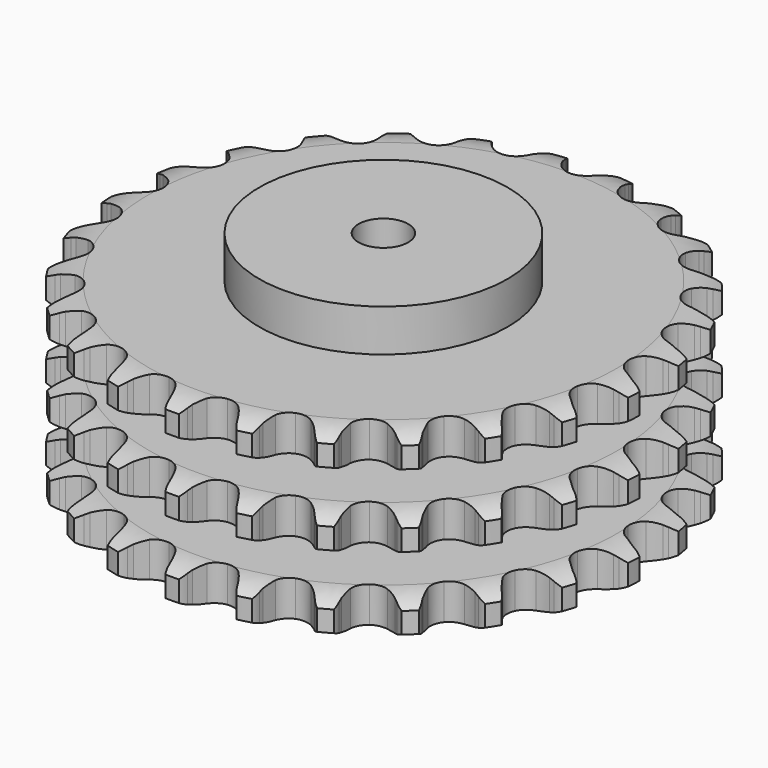
from build123d import *

# Parameters (mm, degrees)
PAD_DEPTH         = 146
SKETCH001_R       = 100
PAD001_DEPTH      = 180
SKETCH002_R       = 20
POCKET_DEPTH      = 0.001
POCKET_DEPTH_BACK = 180.001


with BuildPart() as part:
    # Sprocket → Pad (new body)
    with BuildSketch(Plane.XY):
        with BuildLine():
            ThreePointArc((-27.49813, 217.670111), (-21.99961, 212.747708), (-18.256057, 206.387709))
            Line((-18.256057, 206.387709), (-16.836047, 202.808476))
            ThreePointArc((-16.836047, 202.808476), (-14.576306, 198.087805), (-11.690705, 193.721517))
            ThreePointArc((-11.690705, 193.721517), (-6.520291, 189.466929), (0, 187.943611))
            ThreePointArc((0, 187.943611), (6.520291, 189.466929), (11.690705, 193.721517))
            ThreePointArc((11.690705, 193.721517), (14.576306, 198.087805), (16.836047, 202.808476))
            Line((16.836047, 202.808476), (18.256057, 206.387709))
            ThreePointArc((18.256057, 206.387709), (21.99961, 212.747708), (27.49813, 217.670111))
            ThreePointArc((27.49813, 217.670111), (31.599752, 211.534928), (33.644027, 204.443756))
            Line((33.644027, 204.443756), (34.129305, 200.623829))
            ThreePointArc((34.129305, 200.623829), (35.144069, 195.489492), (36.853162, 190.542759))
            ThreePointArc((36.853162, 190.542759), (40.803065, 185.136008), (46.739675, 182.039017))
            ThreePointArc((46.739675, 182.039017), (53.433953, 181.892947), (59.500002, 184.728039))
            Line((59.500002, 184.728039), (66.743528, 192.24992))
            ThreePointArc((66.743528, 192.24992), (67.83691, 193.835393), (69.009045, 195.363563))
            ThreePointArc((69.009045, 195.363563), (74.216655, 200.592767), (80.766581, 203.993097))
            ThreePointArc((80.766581, 203.993097), (83.213585, 197.03063), (83.430133, 189.653851))
            Line((83.430133, 189.653851), (82.950188, 185.833249))
            ThreePointArc((82.950188, 185.833249), (82.656213, 180.607856), (83.08141, 175.391499))
            ThreePointArc((83.08141, 175.391499), (85.562615, 169.17231), (90.542525, 164.696242))
            ThreePointArc((90.542525, 164.696242), (96.990164, 162.889962), (103.570695, 164.127419))
            Line((103.570695, 164.127419), (112.457269, 169.611595))
            ThreePointArc((112.457269, 169.611595), (113.91059, 170.875344), (115.425942, 172.064006))
            ThreePointArc((115.425942, 172.064006), (121.770395, 175.833845), (128.960171, 177.498447))
            ThreePointArc((128.960171, 177.498447), (129.598802, 170.146174), (127.974016, 162.947296))
            Line((127.974016, 162.947296), (126.559005, 159.366083))
            ThreePointArc((126.559005, 159.366083), (124.974764, 154.377963), (124.089347, 149.219747))
            ThreePointArc((124.089347, 149.219747), (124.945951, 142.578894), (128.656255, 137.004996))
            ThreePointArc((128.656255, 137.004996), (134.452126, 133.652001), (141.133661, 133.21407))
            Line((141.133661, 133.21407), (151.104905, 136.315949))
            ThreePointArc((151.104905, 136.315949), (152.82685, 137.178569), (154.590202, 137.953034))
            ThreePointArc((154.590202, 137.953034), (161.672853, 140.026635), (169.050718, 139.850917))
            ThreePointArc((169.050718, 139.850917), (167.840851, 132.570807), (164.476822, 126.002163))
            Line((164.476822, 126.002163), (162.215655, 122.88536))
            ThreePointArc((162.215655, 122.88536), (159.44069, 118.447936), (157.300294, 113.671968))
            ThreePointArc((157.300294, 113.671968), (156.478473, 107.026721), (158.686039, 100.705223))
            ThreePointArc((158.686039, 100.705223), (163.465966, 96.016194), (169.828679, 93.930391))
            Line((169.828679, 93.930391), (180.258065, 94.455071))
            ThreePointArc((180.258065, 94.455071), (182.140436, 94.86236), (184.040991, 95.173966))
            ThreePointArc((184.040991, 95.173966), (191.416811, 95.421038), (198.519188, 93.416039))
            ThreePointArc((198.519188, 93.416039), (195.536841, 86.665529), (190.644944, 81.139851))
            Line((190.644944, 81.139851), (187.679698, 78.683298))
            ThreePointArc((187.679698, 78.683298), (183.888371, 75.075389), (180.627485, 70.981762))
            ThreePointArc((180.627485, 70.981762), (178.178877, 64.749666), (178.744996, 58.07777))
            ThreePointArc((178.744996, 58.07777), (182.208639, 52.347336), (187.852738, 48.74472))
            Line((187.852738, 48.74472), (198.084947, 46.659234))
            ThreePointArc((198.084947, 46.659234), (200.009469, 46.5856), (201.927807, 46.414768))
            ThreePointArc((201.927807, 46.414768), (209.133347, 44.819785), (215.513967, 41.111488))
            ThreePointArc((215.513967, 41.111488), (210.946532, 35.314738), (204.834143, 31.179224))
            Line((204.834143, 31.179224), (201.351135, 29.537274))
            ThreePointArc((201.351135, 29.537274), (196.78167, 26.985579), (192.605186, 23.831511))
            ThreePointArc((192.605186, 23.831511), (188.683647, 18.404152), (187.572747, 11.801077))
            ThreePointArc((187.572747, 11.801077), (189.502472, 5.389302), (194.073317, 0.496239))
            Line((194.073317, 0.496239), (203.465424, -4.068375))
            ThreePointArc((203.465424, -4.068375), (205.311171, -4.618305), (207.126757, -5.260841))
            ThreePointArc((207.126757, -5.260841), (213.709266, -8.597659), (218.967211, -13.776249))
            ThreePointArc((218.967211, -13.776249), (213.101677, -18.255009), (206.152859, -20.740508))
            Line((206.152859, -20.740508), (202.370941, -21.464685))
            ThreePointArc((202.370941, -21.464685), (197.310453, -22.799834), (192.480796, -24.816162))
            ThreePointArc((192.480796, -24.816162), (187.33273, -29.097764), (184.614613, -35.217121))
            ThreePointArc((184.614613, -35.217121), (184.889169, -41.907361), (188.099557, -47.783423))
            Line((188.099557, -47.783423), (196.061419, -54.540353))
            ThreePointArc((196.061419, -54.540353), (197.712418, -55.532024), (199.311171, -56.605892))
            ThreePointArc((199.311171, -56.605892), (204.857045, -61.474881), (208.661939, -67.798374))
            ThreePointArc((208.661939, -67.798374), (201.86686, -70.677726), (194.518233, -71.357038))
            Line((194.518233, -71.357038), (190.675035, -71.117938))
            ThreePointArc((190.675035, -71.117938), (185.441494, -71.152649), (180.262129, -71.904544))
            ThreePointArc((180.262129, -71.904544), (174.211008, -74.771359), (170.056463, -80.022497))
            ThreePointArc((170.056463, -80.022497), (168.658598, -86.570831), (170.306809, -93.060676))
            Line((170.306809, -93.060676), (176.338155, -101.58536))
            ThreePointArc((176.338155, -101.58536), (177.690666, -102.956462), (178.972132, -104.394187))
            ThreePointArc((178.972132, -104.394187), (183.132903, -110.48941), (185.245671, -117.560477))
            ThreePointArc((185.245671, -117.560477), (177.948005, -118.659502), (170.661312, -117.489943))
            Line((170.661312, -117.489943), (166.998316, -116.302591))
            ThreePointArc((166.998316, -116.302591), (161.920564, -115.034682), (156.71693, -114.474899))
            ThreePointArc((156.71693, -114.474899), (150.142968, -115.746795), (144.813041, -119.799766))
            ThreePointArc((144.813041, -119.799766), (141.830588, -125.794737), (141.813059, -132.490585))
            Line((141.813059, -132.490585), (145.534916, -142.247385))
            ThreePointArc((145.534916, -142.247385), (146.503956, -143.911767), (147.387614, -145.623011))
            ThreePointArc((147.387614, -145.623011), (149.901847, -152.561483), (150.189735, -159.935824))
            ThreePointArc((150.189735, -159.935824), (142.848023, -159.185465), (136.081112, -156.240523))
            Line((136.081112, -156.240523), (132.828479, -154.179523))
            ThreePointArc((132.828479, -154.179523), (128.22557, -151.688663), (123.32463, -149.852376))
            ThreePointArc((123.32463, -149.852376), (116.640893, -149.449435), (110.470483, -152.049575))
            ThreePointArc((110.470483, -152.049575), (106.090841, -157.114497), (104.408672, -163.595623))
            Line((104.408672, -163.595623), (105.587183, -173.971483))
            ThreePointArc((105.587183, -173.971483), (106.111863, -175.824567), (106.542191, -177.701805))
            ThreePointArc((106.542191, -177.701805), (107.251907, -185.047557), (105.696827, -192.261814))
            ThreePointArc((105.696827, -192.261814), (98.772375, -189.70922), (92.950435, -185.173936))
            Line((92.950435, -185.173936), (90.31254, -182.36879))
            ThreePointArc((90.31254, -182.36879), (86.473691, -178.811487), (82.183389, -175.814076))
            ThreePointArc((82.183389, -175.814076), (75.809842, -173.761617), (69.186658, -174.74555))
            ThreePointArc((69.186658, -174.74555), (63.685015, -178.562175), (60.443904, -184.421347))
            Line((60.443904, -184.421347), (59.005019, -194.764314))
            ThreePointArc((59.005019, -194.764314), (59.052372, -196.689662), (59.002331, -198.614942))
            ThreePointArc((59.002331, -198.614942), (57.862935, -205.906413), (54.562598, -212.507288))
            ThreePointArc((54.562598, -212.507288), (48.490494, -208.312846), (43.979341, -202.47219))
            Line((43.979341, -202.47219), (42.121932, -199.099154))
            ThreePointArc((42.121932, -199.099154), (39.288353, -194.698928), (35.878264, -190.728731))
            ThreePointArc((35.878264, -190.728731), (30.21538, -187.155717), (23.55558, -186.461619))
            ThreePointArc((23.55558, -186.461619), (17.277626, -188.790135), (12.681224, -193.659199))
            Line((12.681224, -193.659199), (8.715352, -203.319386))
            ThreePointArc((8.715352, -203.319386), (8.282404, -205.196022), (7.755137, -207.048371))
            ThreePointArc((7.755137, -207.048371), (4.838222, -213.827411), (0, -219.400147))
            ThreePointArc((0, -219.400147), (-4.838222, -213.827411), (-7.755137, -207.048371))
            Line((-7.755137, -207.048371), (-8.715352, -203.319386))
            ThreePointArc((-8.715352, -203.319386), (-10.365618, -198.352719), (-12.681224, -193.659199))
            ThreePointArc((-12.681224, -193.659199), (-17.277626, -188.790135), (-23.55558, -186.461619))
            ThreePointArc((-23.55558, -186.461619), (-30.21538, -187.155717), (-35.878264, -190.728731))
            Line((-35.878264, -190.728731), (-42.121932, -199.099154))
            ThreePointArc((-42.121932, -199.099154), (-43.007979, -200.809162), (-43.979341, -202.47219))
            ThreePointArc((-43.979341, -202.47219), (-48.490494, -208.312846), (-54.562598, -212.507288))
            ThreePointArc((-54.562598, -212.507288), (-57.862935, -205.906413), (-59.002331, -198.614942))
            Line((-59.002331, -198.614942), (-59.005019, -194.764314))
            ThreePointArc((-59.005019, -194.764314), (-59.368278, -189.543279), (-60.443904, -184.421347))
            ThreePointArc((-60.443904, -184.421347), (-63.685015, -178.562175), (-69.186658, -174.74555))
            ThreePointArc((-69.186658, -174.74555), (-75.809842, -173.761617), (-82.183389, -175.814076))
            Line((-82.183389, -175.814076), (-90.31254, -182.36879))
            ThreePointArc((-90.31254, -182.36879), (-91.596012, -183.804723), (-92.950435, -185.173936))
            ThreePointArc((-92.950435, -185.173936), (-98.772375, -189.70922), (-105.696827, -192.261814))
            ThreePointArc((-105.696827, -192.261814), (-107.251907, -185.047557), (-106.542191, -177.701805))
            Line((-106.542191, -177.701805), (-105.587183, -173.971483))
            ThreePointArc((-105.587183, -173.971483), (-104.640611, -168.824138), (-104.408672, -163.595623))
            ThreePointArc((-104.408672, -163.595623), (-106.090841, -157.114497), (-110.470483, -152.049575))
            ThreePointArc((-110.470483, -152.049575), (-116.640893, -149.449435), (-123.32463, -149.852376))
            Line((-123.32463, -149.852376), (-132.828479, -154.179523))
            ThreePointArc((-132.828479, -154.179523), (-134.428731, -155.251158), (-136.081112, -156.240523))
            ThreePointArc((-136.081112, -156.240523), (-142.848023, -159.185465), (-150.189735, -159.935824))
            ThreePointArc((-150.189735, -159.935824), (-149.901847, -152.561483), (-147.387614, -145.623011))
            Line((-147.387614, -145.623011), (-145.534916, -142.247385))
            ThreePointArc((-145.534916, -142.247385), (-143.33799, -137.497156), (-141.813059, -132.490585))
            ThreePointArc((-141.813059, -132.490585), (-141.830588, -125.794737), (-144.813041, -119.799766))
            ThreePointArc((-144.813041, -119.799766), (-150.142968, -115.746795), (-156.71693, -114.474899))
            Line((-156.71693, -114.474899), (-166.998316, -116.302591))
            ThreePointArc((-166.998316, -116.302591), (-168.814798, -116.942592), (-170.661312, -117.489943))
            ThreePointArc((-170.661312, -117.489943), (-177.948005, -118.659502), (-185.245671, -117.560477))
            ThreePointArc((-185.245671, -117.560477), (-183.132903, -110.48941), (-178.972132, -104.394187))
            Line((-178.972132, -104.394187), (-176.338155, -101.58536))
            ThreePointArc((-176.338155, -101.58536), (-173.028915, -97.530721), (-170.306809, -93.060676))
            ThreePointArc((-170.306809, -93.060676), (-168.658598, -86.570831), (-170.056463, -80.022497))
            ThreePointArc((-170.056463, -80.022497), (-174.211008, -74.771359), (-180.262129, -71.904544))
            Line((-180.262129, -71.904544), (-190.675035, -71.117938))
            ThreePointArc((-190.675035, -71.117938), (-192.593611, -71.286092), (-194.518233, -71.357038))
            ThreePointArc((-194.518233, -71.357038), (-201.86686, -70.677726), (-208.661939, -67.798374))
            ThreePointArc((-208.661939, -67.798374), (-204.857045, -61.474881), (-199.311171, -56.605892))
            Line((-199.311171, -56.605892), (-196.061419, -54.540353))
            ThreePointArc((-196.061419, -54.540353), (-191.847798, -51.436073), (-188.099557, -47.783423))
            ThreePointArc((-188.099557, -47.783423), (-184.889169, -41.907361), (-184.614613, -35.217121))
            ThreePointArc((-184.614613, -35.217121), (-187.33273, -29.097764), (-192.480796, -24.816162))
            Line((-192.480796, -24.816162), (-202.370941, -21.464685))
            ThreePointArc((-202.370941, -21.464685), (-204.271058, -21.150425), (-206.152859, -20.740508))
            ThreePointArc((-206.152859, -20.740508), (-213.101677, -18.255009), (-218.967211, -13.776249))
            ThreePointArc((-218.967211, -13.776249), (-213.709266, -8.597659), (-207.126757, -5.260841))
            Line((-207.126757, -5.260841), (-203.465424, -4.068375))
            ThreePointArc((-203.465424, -4.068375), (-198.612178, -2.109507), (-194.073317, 0.496239))
            ThreePointArc((-194.073317, 0.496239), (-189.502472, 5.389302), (-187.572747, 11.801077))
            ThreePointArc((-187.572747, 11.801077), (-188.683647, 18.404152), (-192.605186, 23.831511))
            Line((-192.605186, 23.831511), (-201.351135, 29.537274))
            ThreePointArc((-201.351135, 29.537274), (-203.113404, 30.314201), (-204.834143, 31.179224))
            ThreePointArc((-204.834143, 31.179224), (-210.946532, 35.314738), (-215.513967, 41.111488))
            ThreePointArc((-215.513967, 41.111488), (-209.133347, 44.819785), (-201.927807, 46.414768))
            Line((-201.927807, 46.414768), (-198.084947, 46.659234))
            ThreePointArc((-198.084947, 46.659234), (-192.897024, 47.349607), (-187.852738, 48.74472))
            ThreePointArc((-187.852738, 48.74472), (-182.208639, 52.347336), (-178.744996, 58.07777))
            ThreePointArc((-178.744996, 58.07777), (-178.178877, 64.749666), (-180.627485, 70.981762))
            Line((-180.627485, 70.981762), (-187.679698, 78.683298))
            ThreePointArc((-187.679698, 78.683298), (-189.193388, 79.874074), (-190.644944, 81.139851))
            ThreePointArc((-190.644944, 81.139851), (-195.536841, 86.665529), (-198.519188, 93.416039))
            ThreePointArc((-198.519188, 93.416039), (-191.416811, 95.421038), (-184.040991, 95.173966))
            Line((-184.040991, 95.173966), (-180.258065, 94.455071))
            ThreePointArc((-180.258065, 94.455071), (-175.061441, 93.833571), (-169.828679, 93.930391))
            ThreePointArc((-169.828679, 93.930391), (-163.465966, 96.016194), (-158.686039, 100.705223))
            ThreePointArc((-158.686039, 100.705223), (-156.478473, 107.026721), (-157.300294, 113.671968))
            Line((-157.300294, 113.671968), (-162.215655, 122.88536))
            ThreePointArc((-162.215655, 122.88536), (-163.385655, 124.415165), (-164.476822, 126.002163))
            ThreePointArc((-164.476822, 126.002163), (-167.840851, 132.570807), (-169.050718, 139.850917))
            ThreePointArc((-169.050718, 139.850917), (-161.672853, 140.026635), (-154.590202, 137.953034))
            Line((-154.590202, 137.953034), (-151.104905, 136.315949))
            ThreePointArc((-151.104905, 136.315949), (-146.226103, 134.421627), (-141.133661, 133.21407))
            ThreePointArc((-141.133661, 133.21407), (-134.452126, 133.652001), (-128.656255, 137.004996))
            ThreePointArc((-128.656255, 137.004996), (-124.945951, 142.578894), (-124.089347, 149.219747))
            Line((-124.089347, 149.219747), (-126.559005, 159.366083))
            ThreePointArc((-126.559005, 159.366083), (-127.311801, 161.138794), (-127.974016, 162.947296))
            ThreePointArc((-127.974016, 162.947296), (-129.598802, 170.146174), (-128.960171, 177.498447))
            ThreePointArc((-128.960171, 177.498447), (-121.770395, 175.833845), (-115.425942, 172.064006))
            Line((-115.425942, 172.064006), (-112.457269, 169.611595))
            ThreePointArc((-112.457269, 169.611595), (-108.202842, 166.563478), (-103.570695, 164.127419))
            ThreePointArc((-103.570695, 164.127419), (-96.990164, 162.889962), (-90.542525, 164.696242))
            ThreePointArc((-90.542525, 164.696242), (-85.562615, 169.17231), (-83.08141, 175.391499))
            Line((-83.08141, 175.391499), (-82.950188, 185.833249))
            ThreePointArc((-82.950188, 185.833249), (-83.238478, 187.73748), (-83.430133, 189.653851))
            ThreePointArc((-83.430133, 189.653851), (-83.213585, 197.03063), (-80.766581, 203.993097))
            ThreePointArc((-80.766581, 203.993097), (-74.216655, 200.592767), (-69.009045, 195.363563))
            Line((-69.009045, 195.363563), (-66.743528, 192.24992))
            ThreePointArc((-66.743528, 192.24992), (-63.380798, 188.239532), (-59.500002, 184.728039))
            ThreePointArc((-59.500002, 184.728039), (-53.433953, 181.892947), (-46.739675, 182.039017))
            ThreePointArc((-46.739675, 182.039017), (-40.803065, 185.136008), (-36.853162, 190.542759))
            Line((-36.853162, 190.542759), (-34.129305, 200.623829))
            ThreePointArc((-34.129305, 200.623829), (-33.934975, 202.53993), (-33.644027, 204.443756))
            ThreePointArc((-33.644027, 204.443756), (-31.599752, 211.534928), (-27.49813, 217.670111))
        make_face()
    extrude(amount=PAD_DEPTH)

    # Sketch → Groove (revolve, cut)
    with BuildSketch(Plane.XZ):
        with BuildLine():
            ThreePointArc((188.9, 0), (201.269317, 1.522732), (212.9, 6))
            Line((212.9, 6), (212.9, 22.8))
            ThreePointArc((212.9, 22.8), (201.269317, 27.277268), (188.9, 28.8))
            Line((100, 28.8), (188.9, 28.8))
            Line((100, 28.8), (100, 58.6))
            Line((100, 58.6), (188.9, 58.6))
            ThreePointArc((188.9, 58.6), (201.269317, 60.122732), (212.9, 64.6))
            Line((212.9, 81.4), (212.9, 64.6))
            ThreePointArc((212.9, 81.4), (201.269317, 85.877268), (188.9, 87.4))
            Line((100, 87.4), (188.9, 87.4))
            Line((100, 117.2), (100, 87.4))
            Line((188.9, 117.2), (100, 117.2))
            ThreePointArc((188.9, 117.2), (201.269317, 118.722732), (212.9, 123.2))
            Line((212.9, 123.2), (212.9, 140))
            ThreePointArc((212.9, 140), (201.269317, 144.477268), (188.9, 146))
            Line((188.9, 146), (222.9, 146))
            Line((222.9, 146), (222.9, 0))
            Line((188.9, 0), (222.9, 0))
        make_face()
    revolve(axis=Axis((0, 0, 0), (0, 0, 1)), mode=Mode.SUBTRACT)

    # Sketch001 → Pad001 (join)
    with BuildSketch(Plane.XY):
        Circle(SKETCH001_R)
    extrude(amount=PAD001_DEPTH)

    # Sketch002 → Pocket (cut, two sides)
    with BuildSketch(Plane.XY) as pocket_sk:
        Circle(SKETCH002_R)
    extrude(amount=-POCKET_DEPTH, mode=Mode.SUBTRACT)
    extrude(pocket_sk.sketch, amount=POCKET_DEPTH_BACK, mode=Mode.SUBTRACT)


solid = part.part
